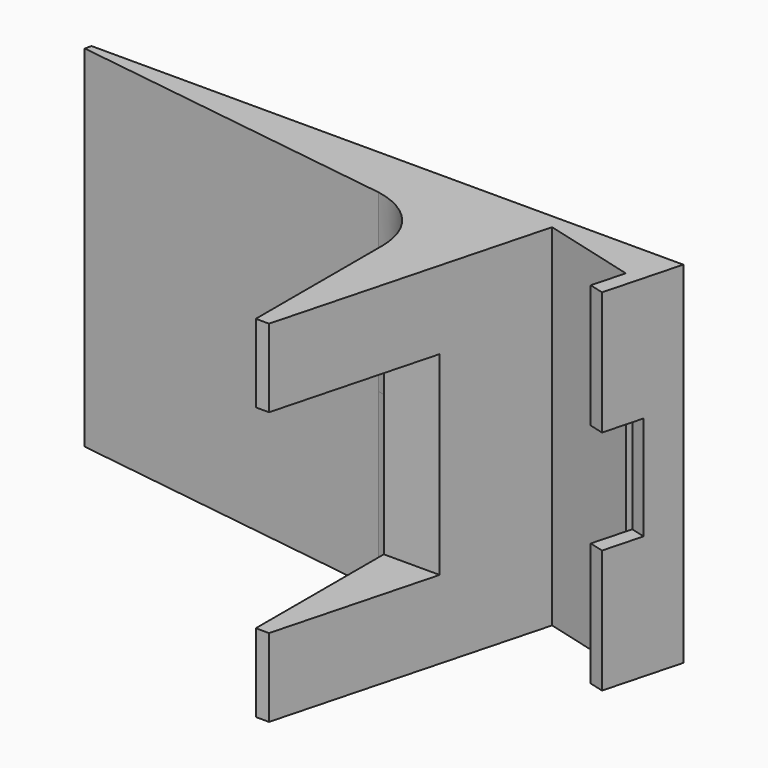
from build123d import *

# Parameters (mm, degrees)
F1_DEPTH      = 25.4
F1_DEPTH_BACK = 25.4
F2_W          = 5.8462059447
F2_H          = 15.0438407436
F3_DEPTH      = 2.1542214913
F4_W          = 23.189639207
F4_H          = 28.1684854999
F5_DEPTH      = 8.088287329


with BuildPart() as f1:
    # F0 (on Top) → F1 (new body, two sides)
    with BuildSketch(Plane.XY) as f1_sk:
        with BuildLine():
            Line((39.8870706558, 9.2431334779), (42.8255088627, 20.2876105905))
            Line((42.8255088627, 20.2876105905), (-42.8958497941, 20.2876105905))
            Line((-42.8958497941, 20.2876105905), (-43.1476103375, 19.3413379916))
            Line((-43.1476103375, 19.3413379916), (4.8284521326, 12.586873956))
            add(Edge.make_bspline(
                [(4.8284521326, 12.586873956), (8.3748446777, 11.9789214805), (13.0701588605, 9.1844080016), (13.3440204307, 2.9022279195)],
                knots=[0, 0, 0, 0, 12.8960176912, 12.8960176912, 12.8960176912, 12.8960176912], degree=3))
            Line((13.3440204307, 2.9022279195), (13.3440204307, -20.2874112874))
            Line((13.3440204307, -20.2874112874), (15.2615886182, -20.2874112874))
            Line((15.2615886182, -20.2874112874), (25.4958156311, 18.1791747184))
            Line((25.4958156311, 18.1791747184), (39.0742355021, 14.5665684056))
            Line((39.0742355021, 14.5665684056), (37.8052698946, 9.7970069509))
            Line((37.8052698946, 9.7970069509), (39.8870706558, 9.2431334779))
        make_face()
    extrude(amount=F1_DEPTH)
    extrude(f1_sk.sketch, amount=-F1_DEPTH_BACK)

    # F2 (on face) → F3 (cut, through all)
    with BuildSketch(Plane(origin=(34.9536834808, -9.2996017797, 0), x_dir=(0.2571107359, 0.966381948, 0), z_dir=(0.966381948, -0.2571107359, 0))):
        with Locations((22.1108943995, -0.0125817023)):
            Rectangle(F2_W, F2_H)
    extrude(amount=-F3_DEPTH, mode=Mode.SUBTRACT)

    # F4 (on face) → F5 (cut, through all)
    with BuildSketch(Plane(origin=(13.3440204307, 0, 0), x_dir=(0, -1, 0), z_dir=(-1, 0, 0))):
        with Locations((8.6925916839, 0.0144629739)):
            Rectangle(F4_W, F4_H)
    extrude(amount=-F5_DEPTH, mode=Mode.SUBTRACT)


solid = f1.part
